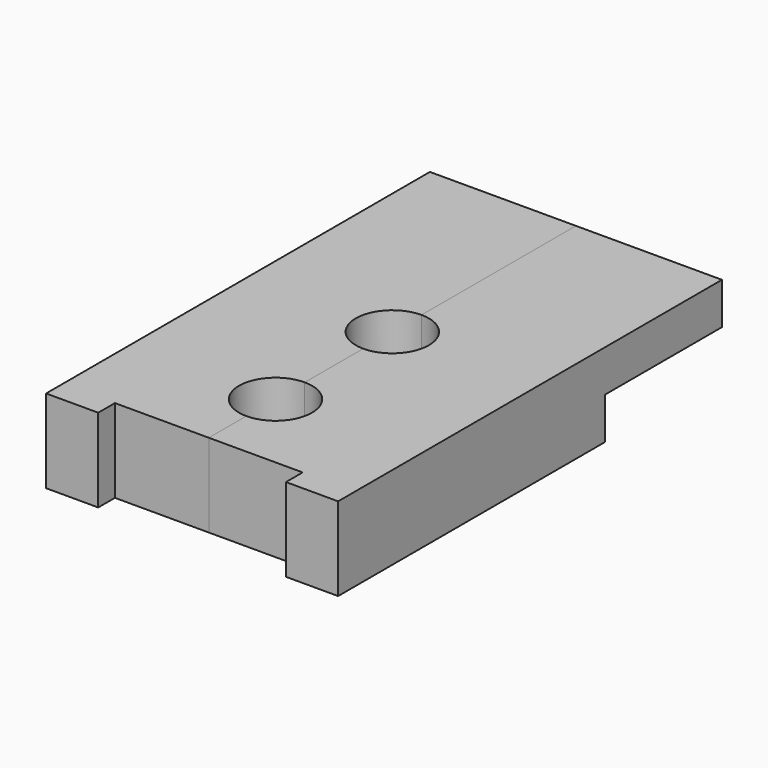
from build123d import *

# Parameters (mm, degrees)
PAD_DEPTH    = 4
SKETCH001_W  = 7
SKETCH001_H  = 7
POCKET_DEPTH = 2


with BuildPart() as part:
    # Sketch → Pad (new body)
    with BuildSketch(Plane.XY):
        with BuildLine():
            ThreePointArc((0, -1.75), (1.75, 0), (0, 1.75))
            Line((0, 11), (0, 1.75))
            Line((7, 11), (0, 11))
            Line((7, -12), (7, 11))
            Line((4.5, -12), (7, -12))
            Line((4.5, -11), (4.5, -12))
            Line((0, -11), (4.5, -11))
            Line((0, -8.75), (0, -11))
            ThreePointArc((0, -8.75), (1.75, -7), (0, -5.25))
            Line((0, -5.25), (0, -1.75))
        make_face()
    pad = extrude(amount=PAD_DEPTH)

    # Sketch001 → Pocket (cut)
    with BuildSketch(Plane.XY):
        with Locations((3.5, 7.5)):
            Rectangle(SKETCH001_W, SKETCH001_H)
    pocket = extrude(amount=POCKET_DEPTH, mode=Mode.SUBTRACT)

    # Mirrored: Pad, Pocket across Sketch V_Axis
    add(pad.mirror(Plane(origin=(0, 0, 0), x_dir=(0, 0, 1), z_dir=(1, 0, 0))))
    add(pocket.mirror(Plane(origin=(0, 0, 0), x_dir=(0, 0, 1), z_dir=(1, 0, 0))), mode=Mode.SUBTRACT)


solid = part.part
